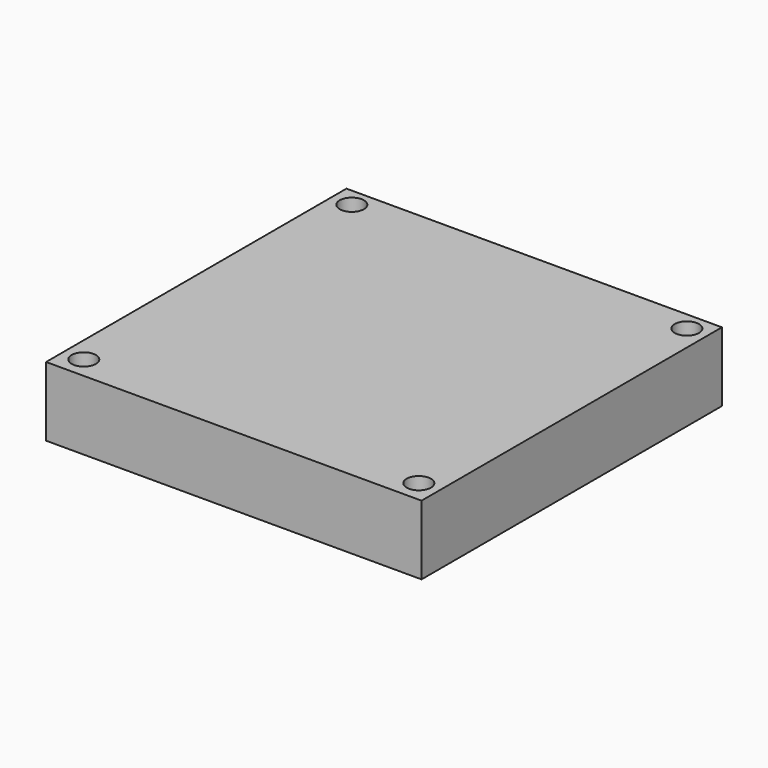
from build123d import *

# Parameters (mm, degrees)
F0_W     = 65
F0_H     = 65
F1_DEPTH = 7
F2_W     = 65
F2_H     = 65
F3_DEPTH = 5
F4_R     = 2.1
F5_DEPTH = 39


with BuildPart() as f1:
    # F0 (on Top) → F1 (new body)
    with BuildSketch(Plane.XY):
        Rectangle(F0_W, F0_H)
    extrude(amount=F1_DEPTH)

    # F2 (on face) → F3 (join)
    with BuildSketch(Plane(origin=(0, 0, 0), x_dir=(1, 0, 0), z_dir=(0, 0, -1))):
        Rectangle(F2_W, F2_H)
    extrude(amount=F3_DEPTH)

    # F4 (on face) → F5 (cut)
    with BuildSketch(Plane.XY.offset(7)):
        with Locations((-28.980361, 29.262956)):
            Circle(F4_R)
        with Locations((29.019639, 29.262956)):
            Circle(F4_R)
        with Locations((29.019639, -28.737044)):
            Circle(F4_R)
        with Locations((-28.980361, -28.737044)):
            Circle(F4_R)
    extrude(amount=-F5_DEPTH, mode=Mode.SUBTRACT)


solid = f1.part
